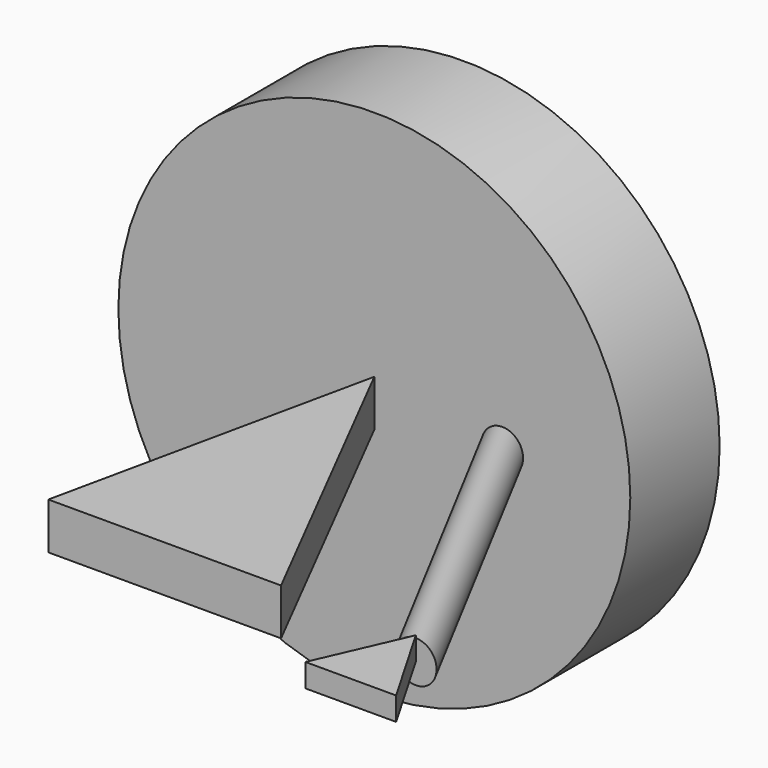
from build123d import *

# Parameters (mm, degrees)
F2_DEPTH = 25
F4_R     = 22.311941
F7_DEPTH = 25


with BuildPart() as f1:
    # F0 (on Top) → F1 (revolve)
    with BuildSketch(Plane.XY):
        Polygon((-175.78628, 465), (-175.78628, 345), (-38.28628, 345), (99.21372, 345), (99.21372, 465), align=None)
    revolve(axis=Axis((-175.78628, 405, 0), (0, 1, 0)))


with BuildPart() as f2:
    # F0 (on Top) → F2 (new body, symmetric)
    with BuildSketch(Plane.XY):
        Polygon((-250, 0), (0, 0), (-175.78628, 345), align=None)
    extrude(amount=F2_DEPTH, both=True)


with BuildPart() as f5:
    # F5: sweep along a path in F0
    with BuildLine(Plane.XY) as f5_path:
        Line((-38.28628, 345), (144.757524, 0))
    # F4 (on Front) → F5 (sweep)
    with BuildSketch(Plane.XZ):
        with Locations((144.771814, 0)):
            Circle(F4_R)
    sweep(path=f5_path.line)


with BuildPart() as f7:
    # F0 (on Top) → F7 (new body)
    with BuildSketch(Plane.XY):
        Polygon((200.23501, -95.744014), (144.757524, 0), (102.738395, -95.744014), align=None)
    extrude(amount=F7_DEPTH)


solid = Compound([f1.part, f2.part, f5.part, f7.part])
